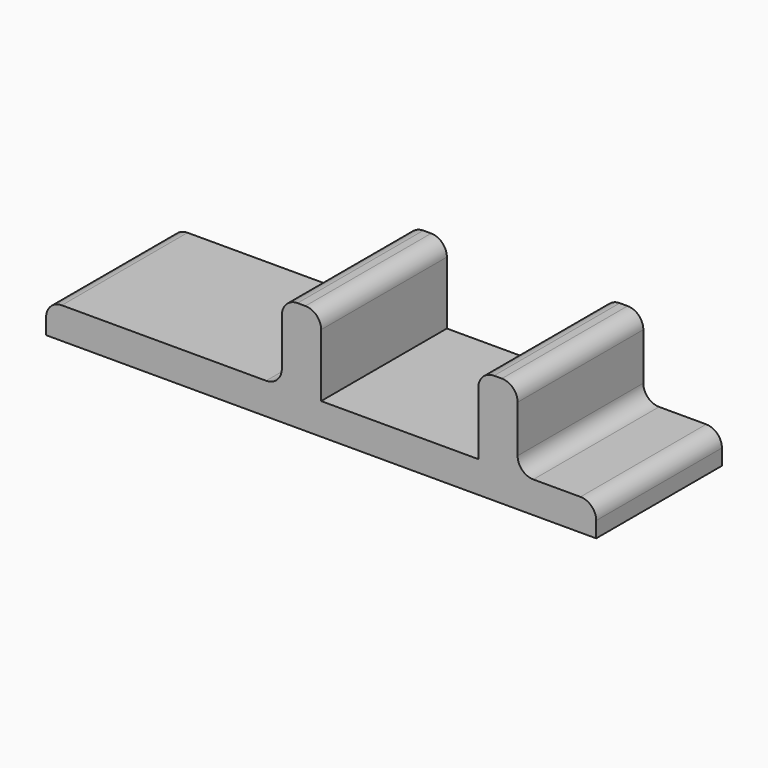
from build123d import *

# Parameters (mm, degrees)
BOX002_W     = 20
BOX002_H     = 20
BOX002_DEPTH = 10
BOX001_W     = 30
BOX001_H     = 20
BOX001_DEPTH = 10
BOX_W        = 70
BOX_H        = 20
BOX_DEPTH    = 4
FILLET_R     = 2


with BuildPart() as cube002:
    # Box002 → Box002 (new body)
    with BuildSketch(Plane(origin=(35, 0, 4), x_dir=(1, 0, 0), z_dir=(0, 0, 1))):
        with Locations((10, 10)):
            Rectangle(BOX002_W, BOX002_H)
    extrude(amount=BOX002_DEPTH)


with BuildPart() as cube001:
    # Box001 → Box001 (new body)
    with BuildSketch(Plane(origin=(30, 0, 4), x_dir=(1, 0, 0), z_dir=(0, 0, 1))):
        with Locations((15, 10)):
            Rectangle(BOX001_W, BOX001_H)
    extrude(amount=BOX001_DEPTH)


with BuildPart() as fillet_body:
    # Box → Box (new body)
    with BuildSketch(Plane.XY):
        with Locations((35, 10)):
            Rectangle(BOX_W, BOX_H)
    extrude(amount=BOX_DEPTH)

    # Fusion: union Cube001
    add(cube001.part)

    # Cut: cut Cube002
    add(cube002.part, mode=Mode.SUBTRACT)

    # Fillet
    fillet_edges = [fillet_body.edges().sort_by_distance(p)[0] for p in [
        (0, 10, 4),
        (30, 10, 4),
        (70, 10, 4),
        (60, 10, 4),
        (30, 10, 14),
        (35, 10, 14),
        (55, 10, 14),
        (60, 10, 14),
    ]]
    fillet(fillet_edges, radius=FILLET_R)


solid = fillet_body.part
